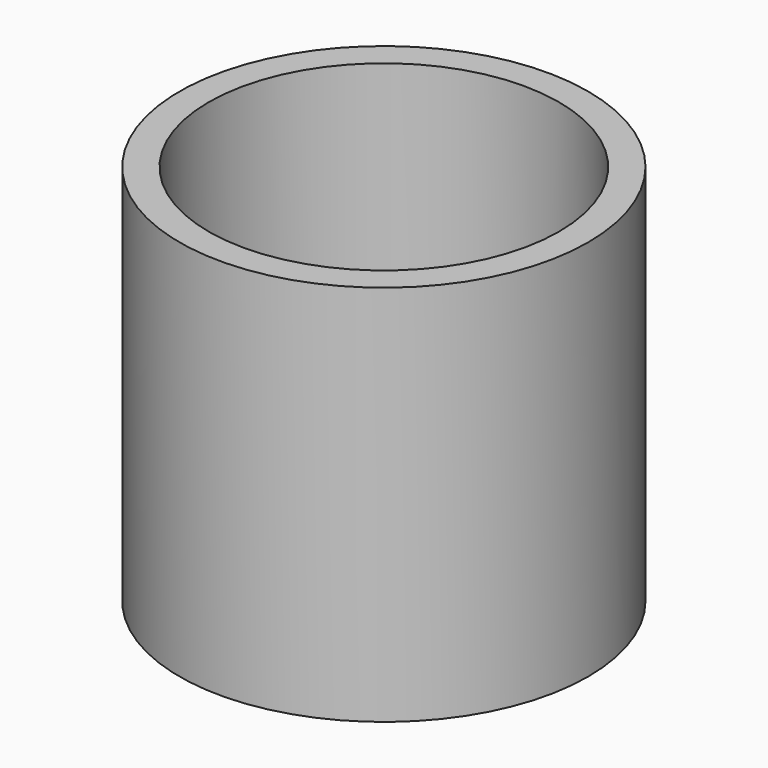
from build123d import *

# Parameters (mm, degrees)
F1_R     = 4.072632
F2_DEPTH = 7.62
F3_D     = 6.985
F4_R     = 4.013855
F5_DEPTH = 2.54


with BuildPart() as f2:
    # F1 (on Top) → F2 (new body)
    with BuildSketch(Plane.XY):
        Circle(F1_R)
    extrude(amount=F2_DEPTH)

    # F3 (through all)
    with Locations(Plane(origin=(0, 0, 0), x_dir=(1, 0, 0), z_dir=(0, 0, -1))):
        with Locations((0, 0)):
            Hole(F3_D / 2)

    # F4 (on Top) → F5 (join)
    with BuildSketch(Plane.XY):
        Circle(F4_R)
    extrude(amount=F5_DEPTH)


solid = f2.part
